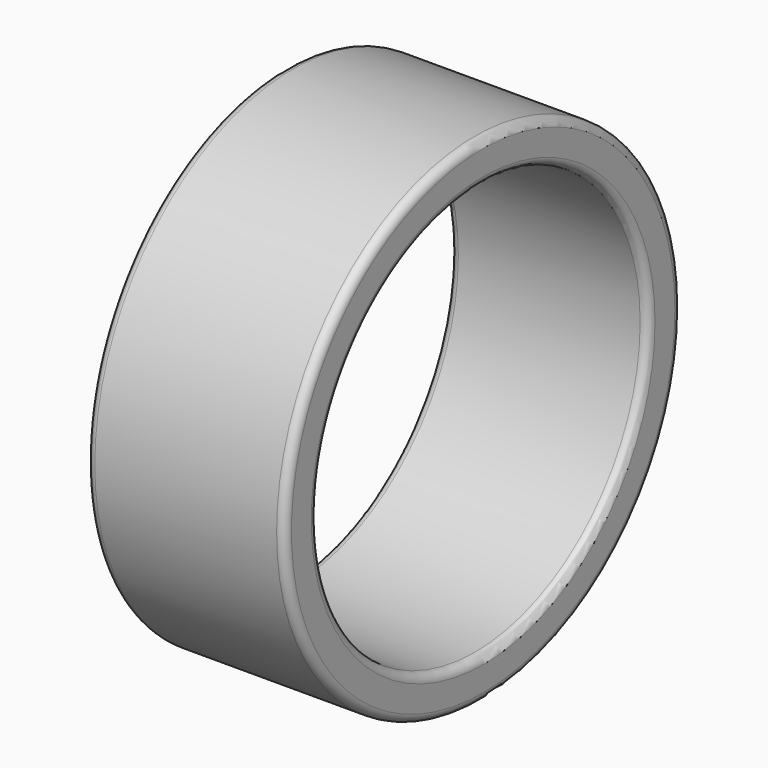
from build123d import *

# Parameters (mm, degrees)
F0_R     = 150
F0_R_2   = 125
F1_DEPTH = 120
F2_R     = 5


with BuildPart() as f1:
    # F0 (on Right) → F1 (new body)
    with BuildSketch(Plane.YZ):
        Circle(F0_R)
        Circle(F0_R_2, mode=Mode.SUBTRACT)
    extrude(amount=F1_DEPTH)

    # F2
    f2_edges = [f1.edges().sort_by_distance(p)[0] for p in [
        (120, -125, 0),
        (120, -150, 0),
        (0, -150, 0),
        (0, -125, 0),
    ]]
    fillet(f2_edges, radius=F2_R)


solid = f1.part
